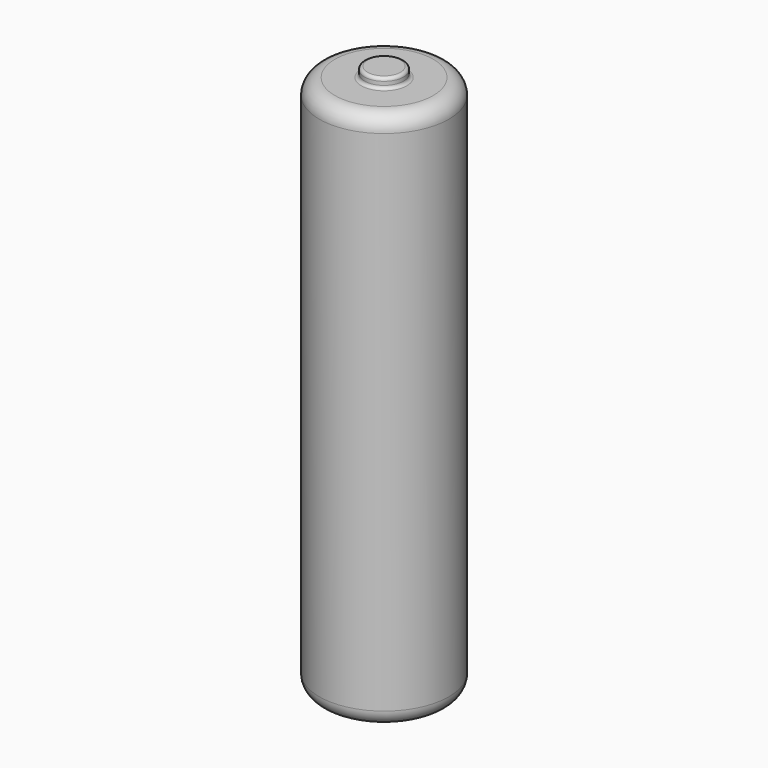
from build123d import *

# Parameters (mm, degrees)
F0_R     = 5.25
F1_DEPTH = 43.7
F2_R     = 1.5882711699
F3_DEPTH = 0.8
F4_R     = 1.27
F5_R     = 0.254
F6_R     = 3.9753387482
F6_R_2   = 3.600663703
F7_DEPTH = 0.5
F8_R     = 0.127


with BuildPart() as f1:
    # F0 (on Top) → F1 (new body)
    with BuildSketch(Plane.XY):
        Circle(F0_R)
    extrude(amount=F1_DEPTH)

    # F2 (on face) → F3 (join)
    with BuildSketch(Plane.XY.offset(43.7)):
        Circle(F2_R)
    extrude(amount=F3_DEPTH)

    # F4
    f4_edges = [f1.edges().sort_by_distance(p)[0] for p in [
        (-5.25, 0, 43.7),
        (-5.25, 0, 0),
    ]]
    fillet(f4_edges, radius=F4_R)

    # F5
    f5_edges = [f1.edges().sort_by_distance(p)[0] for p in [
        (-1.588271, 0, 44.5),
        (-3.98, 0, 43.7),
        (-1.588271, 0, 43.7),
    ]]
    fillet(f5_edges, radius=F5_R)

    # F6 (on face) → F7 (cut)
    with BuildSketch(Plane(origin=(0, 0, 0), x_dir=(1, 0, 0), z_dir=(0, 0, -1))):
        Circle(F6_R)
        Circle(F6_R_2, mode=Mode.SUBTRACT)
    extrude(amount=-F7_DEPTH, mode=Mode.SUBTRACT)

    # F8
    f8_edges = [f1.edges().sort_by_distance(p)[0] for p in [
        (-3.975339, 0, 0.5),
        (-3.600664, 0, 0.5),
        (-3.600664, 0, 0),
    ]]
    fillet(f8_edges, radius=F8_R)


solid = f1.part
